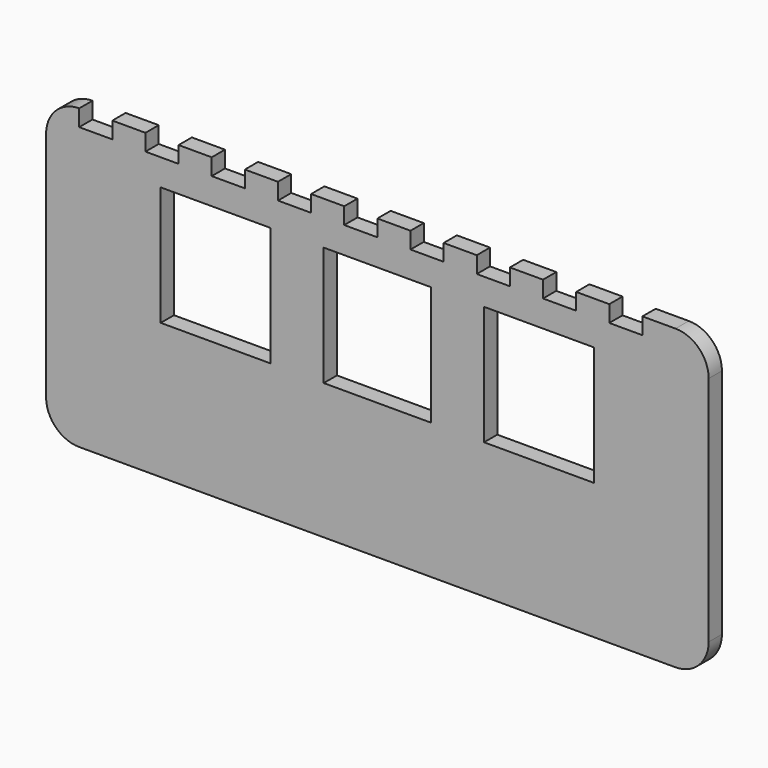
from build123d import *

# Parameters (mm, degrees)
F1_DEPTH = 3.175
F2_W     = 21.082
F2_H     = 22.86
F3_DEPTH = 25.4


with BuildPart() as f1:
    # F0 (on Front) → F1 (new body)
    with BuildSketch(Plane.XZ):
        with BuildLine():
            ThreePointArc((63.5, 22.225), (61.640128, 26.715128), (57.15, 28.575))
            Line((57.15, 28.575), (50.8, 28.575))
            Line((50.8, 28.575), (50.8, 25.4))
            Line((50.8, 25.4), (44.45, 25.4))
            Line((44.45, 25.4), (44.45, 28.575))
            Line((44.45, 28.575), (38.1, 28.575))
            Line((38.1, 28.575), (38.1, 25.4))
            Line((38.1, 25.4), (31.75, 25.4))
            Line((31.75, 25.4), (31.75, 28.575))
            Line((31.75, 28.575), (25.4, 28.575))
            Line((25.4, 28.575), (25.4, 25.4))
            Line((25.4, 25.4), (19.05, 25.4))
            Line((19.05, 25.4), (19.05, 28.575))
            Line((19.05, 28.575), (12.7, 28.575))
            Line((12.7, 28.575), (12.7, 25.4))
            Line((12.7, 25.4), (6.35, 25.4))
            Line((6.35, 25.4), (6.35, 28.575))
            Line((6.35, 28.575), (0, 28.575))
            Line((0, 28.575), (0, 25.4))
            Line((0, 25.4), (-6.35, 25.4))
            Line((-6.35, 25.4), (-6.35, 28.575))
            Line((-6.35, 28.575), (-12.7, 28.575))
            Line((-12.7, 28.575), (-12.7, 25.4))
            Line((-12.7, 25.4), (-19.05, 25.4))
            Line((-19.05, 25.4), (-19.05, 28.575))
            Line((-19.05, 28.575), (-25.4, 28.575))
            Line((-25.4, 28.575), (-25.4, 25.4))
            Line((-25.4, 25.4), (-31.75, 25.4))
            Line((-31.75, 25.4), (-31.75, 28.575))
            Line((-31.75, 28.575), (-38.1, 28.575))
            Line((-38.1, 28.575), (-38.1, 25.4))
            Line((-38.1, 25.4), (-44.45, 25.4))
            Line((-44.45, 25.4), (-44.45, 28.575))
            Line((-44.45, 28.575), (-50.8, 28.575))
            Line((-50.8, 28.575), (-50.8, 25.4))
            Line((-50.8, 25.4), (-57.15, 25.4))
            Line((-57.15, 25.4), (-57.15, 28.575))
            ThreePointArc((-57.15, 28.575), (-61.640128, 26.715128), (-63.5, 22.225))
            Line((-63.5, 22.225), (-63.5, -22.225))
            ThreePointArc((-63.5, -22.225), (-61.640128, -26.715128), (-57.15, -28.575))
            Line((-57.15, -28.575), (57.15, -28.575))
            ThreePointArc((57.15, -28.575), (61.640128, -26.715128), (63.5, -22.225))
            Line((63.5, -22.225), (63.5, 22.225))
        make_face()
    extrude(amount=F1_DEPTH)

    # F2 (on face) → F3 (cut)
    with BuildSketch(Plane.XZ.offset(3.175)):
        with Locations((-30.988, 8.89)):
            Rectangle(F2_W, F2_H)
        Polygon((10.287, 20.32), (0, 20.32), (-10.287, 20.32), (-10.287, -2.54), (0, -2.54), (10.287, -2.54), align=None)
        with Locations((30.988, 8.89)):
            Rectangle(F2_W, F2_H)
    extrude(amount=-F3_DEPTH, mode=Mode.SUBTRACT)


solid = f1.part
